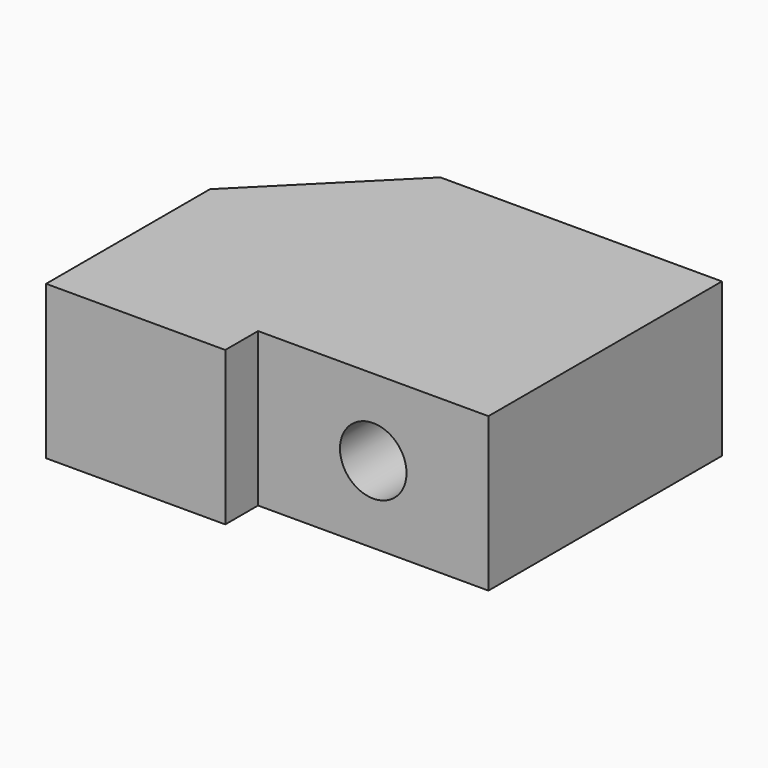
from build123d import *

# Parameters (mm, degrees)
PAD_DEPTH       = 6
SKETCH001_R     = 1.3
POCKET_DEPTH    = 9
SKETCH002_R     = 1.3
POCKET001_DEPTH = 13.001


with BuildPart() as part:
    # Sketch → Pad (new body)
    with BuildSketch(Plane.XY):
        Polygon((-7, -1.6), (0, -1.6), (0, 0), (9, 0), (9, 11.4), (-2, 11.4), (-7, 6.4), align=None)
    extrude(amount=PAD_DEPTH)

    # Sketch001 → Pocket (cut)
    with BuildSketch(Plane(origin=(-7, 0, 0), x_dir=(0, -1, 0), z_dir=(-1, 0, 0))):
        with Locations((-2.4, 3)):
            Circle(SKETCH001_R)
    extrude(amount=-POCKET_DEPTH, mode=Mode.SUBTRACT)

    # Sketch002 → Pocket001 (cut, through all)
    with BuildSketch(Plane(origin=(0, 11.4, 0), x_dir=(-1, 0, 0), z_dir=(0, 1, 0))):
        with Locations((-4.5, 3)):
            Circle(SKETCH002_R)
    extrude(amount=-POCKET001_DEPTH, mode=Mode.SUBTRACT)


solid = part.part
